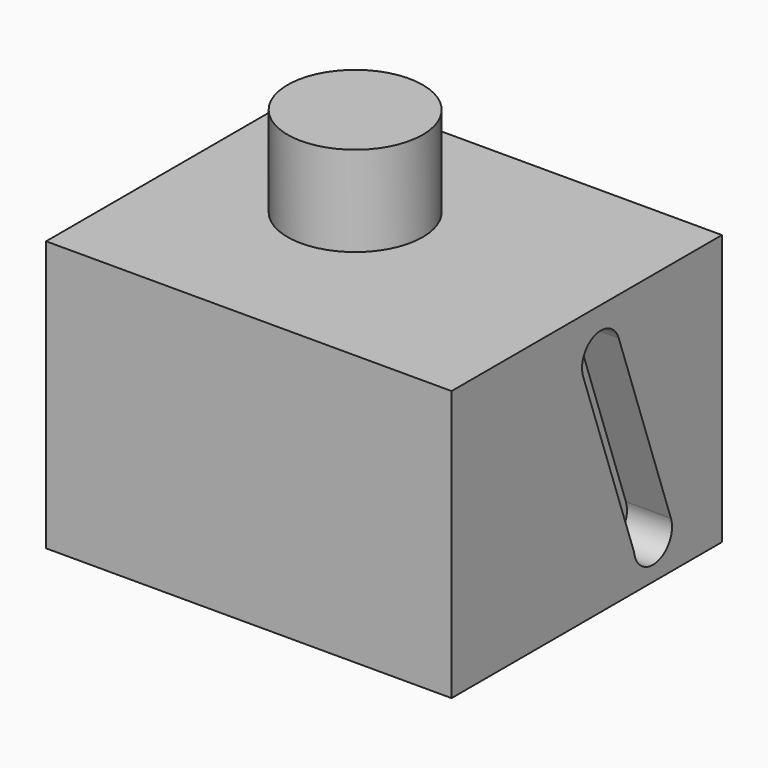
from build123d import *

# Parameters (mm, degrees)
F0_W          = 101.6
F0_H          = 95.25
F1_DEPTH      = 38.1
F1_DEPTH_BACK = 38.1
F2_R          = 19.05
F3_DEPTH      = 25.4
F4_W          = 95.25
F4_H          = 76.2
F5_DEPTH      = 12.7


with BuildPart() as f1:
    # F0 (on Top) → F1 (new body, two sides)
    with BuildSketch(Plane.XY) as f1_sk:
        with Locations((50.8, 47.625)):
            Rectangle(F0_W, F0_H)
    extrude(amount=F1_DEPTH)
    extrude(f1_sk.sketch, amount=-F1_DEPTH_BACK)

    # F2 (on face) → F3 (join)
    with BuildSketch(Plane.XY.offset(38.1)):
        with Locations((44.45, 53.34)):
            Circle(F2_R)
    extrude(amount=F3_DEPTH)

    # F4 (on face) → F5 (join)
    with BuildSketch(Plane.YZ.offset(101.6)):
        with Locations((47.625, 0)):
            Rectangle(F4_W, F4_H)
        with BuildLine():
            ThreePointArc((46.342392, 22.897961), (50.403336, 31.381813), (58.886788, 27.320033))
            Line((58.886788, 27.320033), (77.276431, -24.863524))
            ThreePointArc((77.276431, -24.863524), (77.291216, -24.905044), (77.305728, -24.94666))
            ThreePointArc((77.305728, -24.94666), (73.828073, -33.213667), (65.22953, -30.663658))
            ThreePointArc((65.22953, -30.663658), (64.613677, -29.374051), (64.284402, -27.983389))
            Line((64.284402, -27.983389), (46.342392, 22.897961))
        make_face(mode=Mode.SUBTRACT)
    extrude(amount=F5_DEPTH)


solid = f1.part
